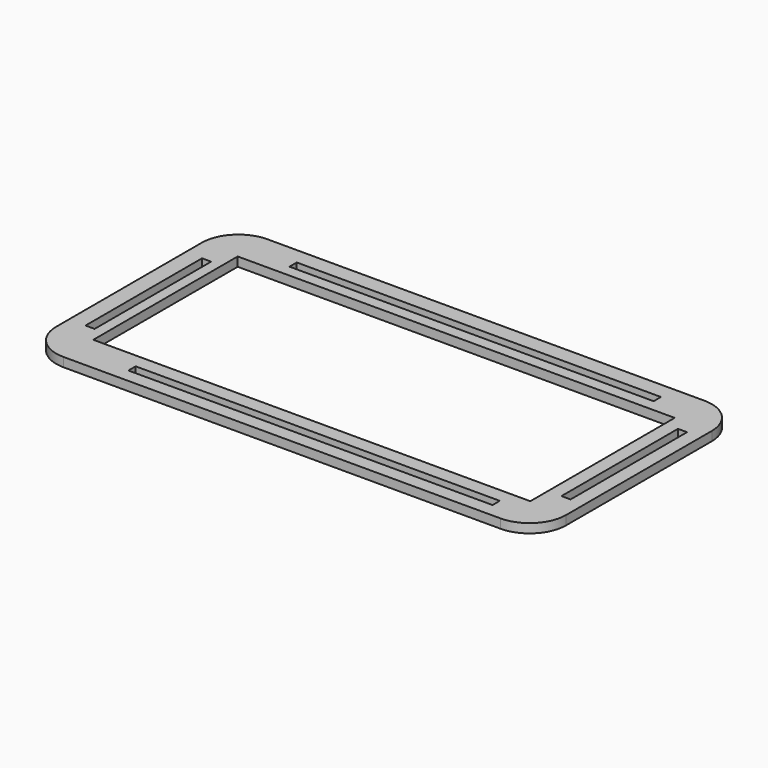
from build123d import *

# Parameters (mm, degrees)
F0_W      = 304.8
F0_H      = 125.8824
F1_DEPTH  = 3.175
F2_W      = 355.6
F2_H      = 177.8
F3_DEPTH  = 3.175
F4_DEPTH  = 12.7
F5_R      = 25.4
F6_R      = 25.4
F7_R      = 25.4
F8_R      = 25.4
F9_W      = 254
F9_H      = 6.35
F10_DEPTH = 12.7
F11_W     = 254
F11_H     = 6.35
F12_DEPTH = 12.7
F13_W     = 6.35
F13_H     = 101.6
F14_DEPTH = 12.7
F15_W     = 6.35
F15_H     = 101.6
F16_DEPTH = 12.7


with BuildPart() as f1:
    # F0 (on Top) → F1 (new body, symmetric)
    with BuildSketch(Plane.XY):
        Rectangle(F0_W, F0_H)
    extrude(amount=F1_DEPTH, both=True)

    # F2 (on Top) → F3 (join, symmetric)
    with BuildSketch(Plane.XY):
        Rectangle(F2_W, F2_H)
    extrude(amount=F3_DEPTH, both=True)

    # F0 (on Top) → F4 (cut, symmetric)
    with BuildSketch(Plane.XY):
        Rectangle(F0_W, F0_H)
    extrude(amount=F4_DEPTH, both=True, mode=Mode.SUBTRACT)

    # F5
    f5_edges = [f1.edges().sort_by_distance(p)[0] for p in [
        (-177.8, 88.9, 0),
    ]]
    fillet(f5_edges, radius=F5_R)

    # F6
    f6_edges = [f1.edges().sort_by_distance(p)[0] for p in [
        (177.8, 88.9, 0),
    ]]
    fillet(f6_edges, radius=F6_R)

    # F7
    f7_edges = [f1.edges().sort_by_distance(p)[0] for p in [
        (177.8, -88.9, 0),
    ]]
    fillet(f7_edges, radius=F7_R)

    # F8
    f8_edges = [f1.edges().sort_by_distance(p)[0] for p in [
        (-177.8, -88.9, 0),
    ]]
    fillet(f8_edges, radius=F8_R)

    # F9 (on face) → F10 (cut, symmetric)
    with BuildSketch(Plane.XY):
        with Locations((4.1438912572, 74.3213535368)):
            Rectangle(F9_W, F9_H)
    extrude(amount=F10_DEPTH, both=True, mode=Mode.SUBTRACT)

    # F11 (on face) → F12 (cut, symmetric)
    with BuildSketch(Plane.XY):
        with Locations((12.1505002975, -76.146347177)):
            Rectangle(F11_W, F11_H)
    extrude(amount=F12_DEPTH, both=True, mode=Mode.SUBTRACT)

    # F13 (on face) → F14 (cut, symmetric)
    with BuildSketch(Plane.XY):
        with Locations((-163.0329436541, -1.6751059711)):
            Rectangle(F13_W, F13_H)
    extrude(amount=F14_DEPTH, both=True, mode=Mode.SUBTRACT)

    # F15 (on face) → F16 (cut, symmetric)
    with BuildSketch(Plane.XY):
        with Locations((165.0233619928, 3.1901380599)):
            Rectangle(F15_W, F15_H)
    extrude(amount=F16_DEPTH, both=True, mode=Mode.SUBTRACT)


solid = f1.part
